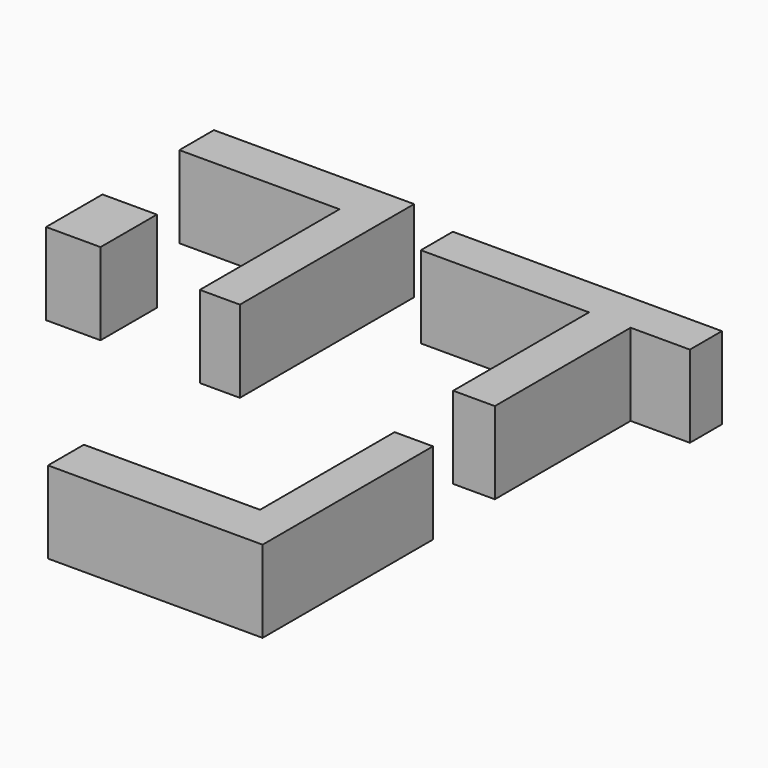
from build123d import *

# Parameters (mm, degrees)
F0_W     = 6.741855
F0_H     = 8.72476
F1_DEPTH = 10.16


with BuildPart() as f1:
    # F0 (on Top) → F1 (new body)
    with BuildSketch(Plane.XY):
        Polygon((24.092233, 41.244313), (-9.220483, 41.244313), (-9.220483, 36.287062), (11.599963, 36.287062), (11.599963, 15.268327), (16.755503, 15.268327), (16.755503, 36.287062), (24.092233, 36.287062), align=None)
        Polygon((17.35037, -15.863197), (17.35037, 4.957249), (12.591412, 4.957249), (12.591412, -15.863197), (-9.220483, -15.863197), (-9.220483, -21.415316), (12.591412, -21.415316), (17.35037, -21.415316), align=None)
        Polygon((-20.721301, 43.425504), (-40.550295, 43.425504), (-40.550295, 38.071673), (-20.721301, 38.071673), (-20.721301, 16.458068), (-15.764052, 16.458068), (-15.764052, 43.425504), align=None)
        with Locations((-37.179367, 21.811897)):
            Rectangle(F0_W, F0_H)
    extrude(amount=F1_DEPTH)


solid = f1.part
